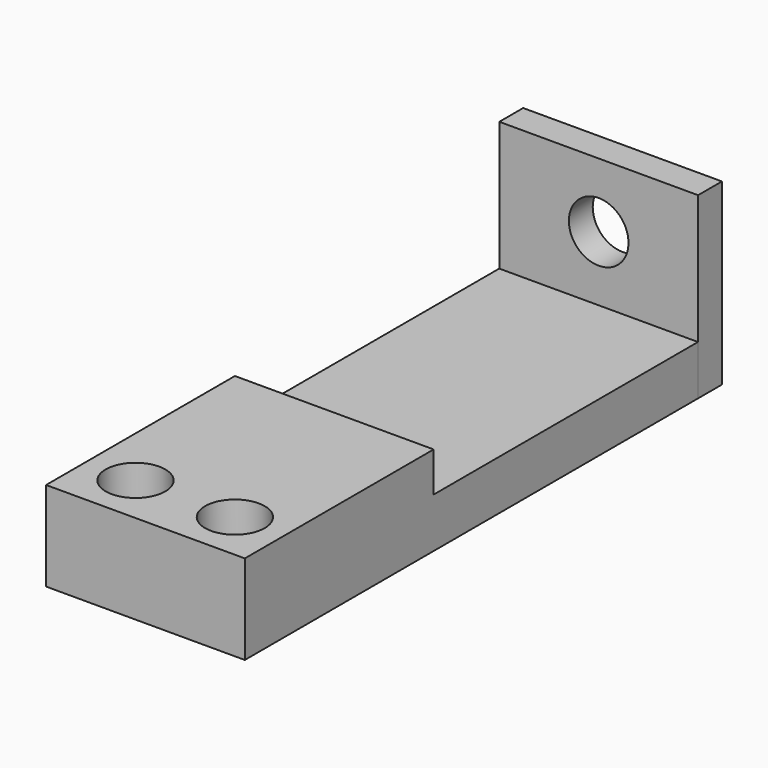
from build123d import *

# Parameters (mm, degrees)
F0_W     = 20
F0_H     = 57
F1_DEPTH = 5
F2_W     = 20
F2_H     = 3
F3_DEPTH = 18
F4_R     = 3
F5_DEPTH = 10
F7_DEPTH = 4
F8_R     = 3
F9_DEPTH = 25


with BuildPart() as f1:
    # F0 (on Top) → F1 (new body)
    with BuildSketch(Plane.XY):
        with Locations((10, 28.5)):
            Rectangle(F0_W, F0_H)
    extrude(amount=F1_DEPTH)

    # F6 (on face) → F7 (join)
    with BuildSketch(Plane.XY.offset(5)):
        Polygon((0, 23.75), (0, 0), (20, 0), (20, 13.944925), (20, 23.75), align=None)
    extrude(amount=F7_DEPTH)

    # F8 (on face) → F9 (cut)
    with BuildSketch(Plane.XY.offset(9)):
        with Locations((5, 5)):
            Circle(F8_R)
        with Locations((15, 5)):
            Circle(F8_R)
    extrude(amount=-F9_DEPTH, mode=Mode.SUBTRACT)


with BuildPart() as f3:
    # F2 (on Top) → F3 (new body)
    with BuildSketch(Plane.XY):
        with Locations((10, 58.510353)):
            Rectangle(F2_W, F2_H)
    extrude(amount=F3_DEPTH)

    # F4 (on face) → F5 (cut)
    with BuildSketch(Plane(origin=(0, 60.010353, 0), x_dir=(-1, 0, 0), z_dir=(0, 1, 0))):
        with Locations((-10, 11.5)):
            Circle(F4_R)
    extrude(amount=-F5_DEPTH, mode=Mode.SUBTRACT)


solid = Compound([f1.part, f3.part])
